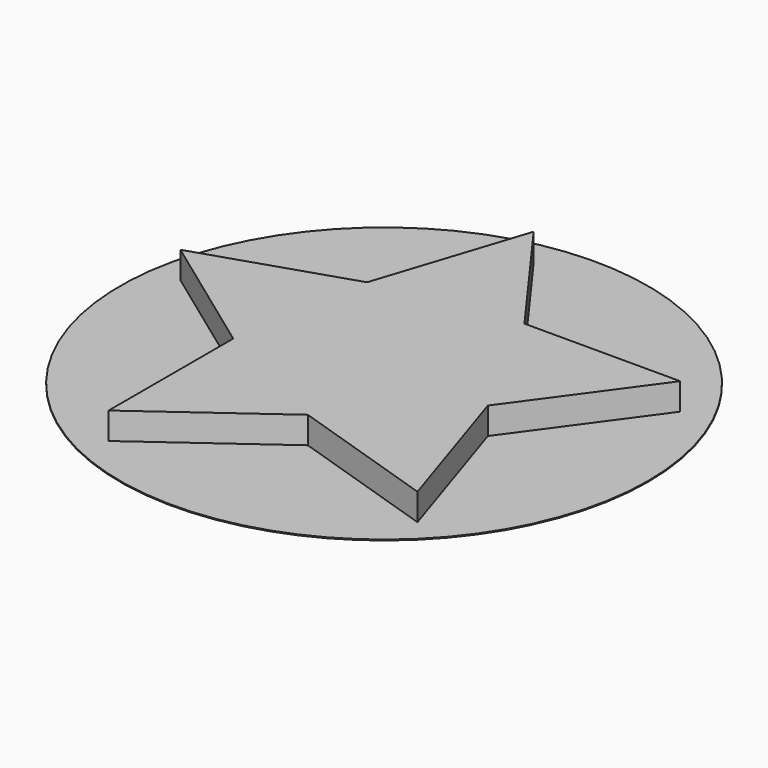
from build123d import *

# Parameters (mm, degrees)
F1_DEPTH = 3.175
F2_R     = 30.231527
F3_DEPTH = 0.1


with BuildPart() as f1:
    # F0 (on Top) → F1 (new body)
    with BuildSketch(Plane.XY):
        Polygon((-4.229996, 26.70714), (-9.742229, 9.742229), (-26.70714, 4.229996), (-12.275925, -6.254896), (-12.275925, -24.09286), (2.15529, -13.607968), (19.120202, -19.120202), (13.607968, -2.15529), (24.09286, 12.275925), (6.254896, 12.275925), align=None)
    extrude(amount=F1_DEPTH)

    # F2 (on Top) → F3 (join)
    with BuildSketch(Plane.XY):
        Circle(F2_R)
    extrude(amount=F3_DEPTH)


solid = f1.part
